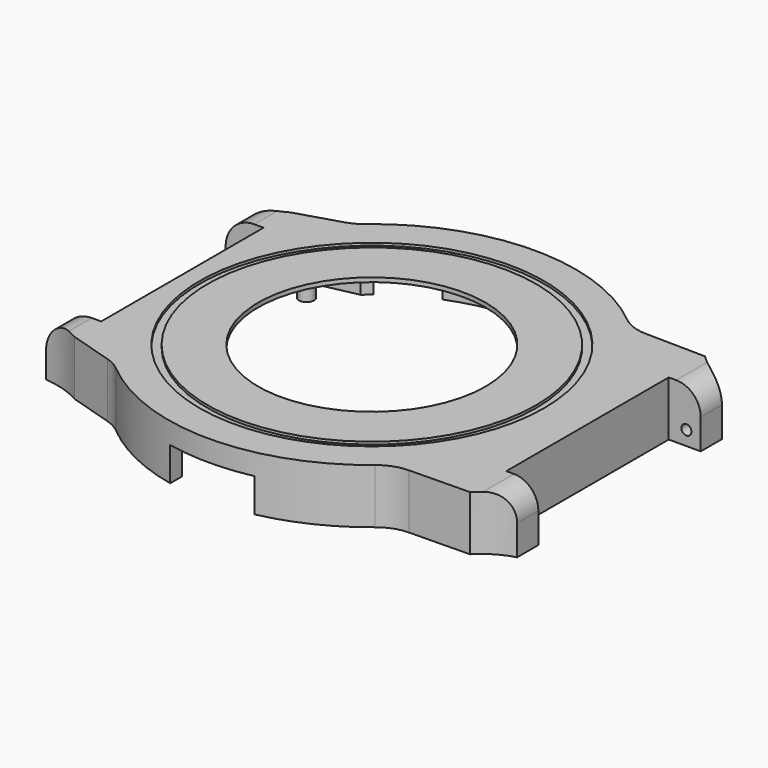
from build123d import *

# Parameters (mm, degrees)
PAD_DEPTH       = 6.5
POCKET_DEPTH    = 6
SKETCH002_R     = 13.5
POCKET001_DEPTH = 1
SKETCH003_W     = 5.4
SKETCH003_H     = 6.5
PAD001_DEPTH    = 3.8
POCKET002_DEPTH = 10
SKETCH008_R     = 0.6
POCKET003_DEPTH = 2
SKETCH009_R     = 0.6
POCKET004_DEPTH = 2
FILLET_R        = 2.9
FILLET001_R     = 2.9
FILLET002_R     = 5
FILLET003_R     = 5
FILLET004_R     = 5
FILLET005_R     = 5
SKETCH010_W     = 3.95
SKETCH010_H     = 6.5
PAD002_DEPTH    = 4.5
POCKET005_DEPTH = 10
SKETCH012_R     = 0.6
POCKET006_DEPTH = 2
SKETCH013_R     = 0.6
POCKET007_DEPTH = 2
FILLET006_R     = 3.4
FILLET007_R     = 3.4
SKETCH014_R     = 20.45
SKETCH014_R_2   = 19.5
POCKET008_DEPTH = 0.3
SKETCH015_R     = 0.9
PAD003_DEPTH    = 6
FILLET008_R     = 1
POCKET009_DEPTH = 4
POCKET010_DEPTH = 4


with BuildPart() as part:
    # Sketch → Pad (new body)
    with BuildSketch(Plane.XY):
        with BuildLine():
            Line((-22.5019915649, 16), (-22.5019915649, -16))
            Line((-22.5019915649, -16), (-16.2858834578, -17.9))
            ThreePointArc((-16.2858834578, -17.9), (0.2206895736, -24.1989937004), (16.6096357576, -17.6))
            Line((16.6096357576, -17.6), (25.6083856708, -17.45))
            Line((25.6083856708, 17.45), (25.6083856708, -17.45))
            Line((16.6096357576, 17.6), (25.6083856708, 17.45))
            ThreePointArc((16.6096357576, 17.6), (0.2206895736, 24.1989937004), (-16.2858834578, 17.9))
            Line((-22.5019915649, 16), (-16.2858834578, 17.9))
        make_face()
    extrude(amount=PAD_DEPTH)

    # Sketch001 → Pocket (cut)
    with BuildSketch(Plane.XY):
        with BuildLine():
            Line((-14.8539557021, 16.9), (-21.2122180433, 15.55))
            Line((-21.2122180433, 15.55), (-21.2122180433, -15.55))
            Line((-21.2122180433, -15.55), (-14.8539557021, -16.9))
            ThreePointArc((-14.8539557021, -16.9), (-0.0760301383, -22.4998715423), (14.739402973, -17))
            Line((14.739402973, -17), (23.6191552218, -16.4))
            Line((23.6191552218, 16.4), (23.6191552218, -16.4))
            Line((14.739402973, 17), (23.6191552218, 16.4))
            ThreePointArc((14.739402973, 17), (-0.0760301383, 22.4998715423), (-14.8539557021, 16.9))
        make_face()
    extrude(amount=POCKET_DEPTH, mode=Mode.SUBTRACT)

    # Sketch002 (on Face19 of Pocket) → Pocket001 (cut)
    with BuildSketch(Plane(origin=(0, 0, 6), x_dir=(1, 0, 0), z_dir=(0, 0, -1))):
        Circle(SKETCH002_R)
    extrude(amount=-POCKET001_DEPTH, mode=Mode.SUBTRACT)

    # Sketch003 (on Face6 of Pocket001) → Pad001 (join)
    with BuildSketch(Plane.YZ.offset(25.6083856708)):
        with Locations((-14.75, 3.25)):
            Rectangle(SKETCH003_W, SKETCH003_H)
        with Locations((14.75, 3.25)):
            Rectangle(SKETCH003_W, SKETCH003_H)
    extrude(amount=PAD001_DEPTH)

    # Sketch006 → Pocket002 (cut)
    with BuildSketch(Plane.XY.offset(6.5)):
        with BuildLine():
            ThreePointArc((25.6083856708, 17.45), (27.3544703324, 16.0634214301), (29.4083856708, 15.1957558499))
            Line((29.4083856708, 17.45), (29.4083856708, 15.1957558499))
            Line((29.4083856708, 17.45), (25.6083856708, 17.45))
        make_face()
        with BuildLine():
            ThreePointArc((29.4083856708, -15.1957558499), (27.3544703324, -16.0634214301), (25.6083856708, -17.45))
            Line((29.4083856708, -17.45), (25.6083856708, -17.45))
            Line((29.4083856708, -15.1957558499), (29.4083856708, -17.45))
        make_face()
    extrude(amount=-POCKET002_DEPTH, mode=Mode.SUBTRACT)

    # Sketch008 (on Face27 of Pocket002) → Pocket003 (cut)
    with BuildSketch(Plane(origin=(0, -12.05, 0), x_dir=(-1, 0, 0), z_dir=(0, 1, 0))):
        with Locations((-27.7083856708, 1.7)):
            Circle(SKETCH008_R)
    extrude(amount=-POCKET003_DEPTH, mode=Mode.SUBTRACT)

    # Sketch009 (on Face26 of Pocket003) → Pocket004 (cut)
    with BuildSketch(Plane.XZ.offset(-12.05)):
        with Locations((27.7083856708, 1.7)):
            Circle(SKETCH009_R)
    extrude(amount=-POCKET004_DEPTH, mode=Mode.SUBTRACT)

    # Fillet
    fillet_edges = [part.edges().sort_by_distance(p)[0] for p in [
        (29.408386, -13.622878, 6.5),
    ]]
    fillet(fillet_edges, radius=FILLET_R)

    # Fillet001
    fillet001_edges = [part.edges().sort_by_distance(p)[0] for p in [
        (29.408386, 13.622878, 6.5),
    ]]
    fillet(fillet001_edges, radius=FILLET001_R)

    # Fillet002
    fillet002_edges = [part.edges().sort_by_distance(p)[0] for p in [
        (16.609636, -17.6, 3.25),
    ]]
    fillet(fillet002_edges, radius=FILLET002_R)

    # Fillet003
    fillet003_edges = [part.edges().sort_by_distance(p)[0] for p in [
        (16.609636, 17.6, 3.25),
    ]]
    fillet(fillet003_edges, radius=FILLET003_R)

    # Fillet004
    fillet004_edges = [part.edges().sort_by_distance(p)[0] for p in [
        (-16.285883, -17.9, 3.25),
    ]]
    fillet(fillet004_edges, radius=FILLET004_R)

    # Fillet005
    fillet005_edges = [part.edges().sort_by_distance(p)[0] for p in [
        (-16.285883, 17.9, 3.25),
    ]]
    fillet(fillet005_edges, radius=FILLET005_R)

    # Sketch010 (on Face4 of Fillet005) → Pad002 (join)
    with BuildSketch(Plane(origin=(-22.5019915649, 0, 0), x_dir=(0, -1, 0), z_dir=(-1, 0, 0))):
        with Locations((-14.025, 3.25)):
            Rectangle(SKETCH010_W, SKETCH010_H)
        with Locations((14.025, 3.25)):
            Rectangle(SKETCH010_W, SKETCH010_H)
    extrude(amount=PAD002_DEPTH)

    # Sketch011 (on Face6 of Pad002) → Pocket005 (cut)
    with BuildSketch(Plane.XY.offset(6.5)):
        with BuildLine():
            ThreePointArc((-27.0019915649, 14.6), (-24.6759937451, 15.0557212933), (-22.5019915649, 16))
            Line((-22.5019915649, 16), (-27.0019915649, 16))
            Line((-27.0019915649, 16), (-27.0019915649, 14.6))
        make_face()
        with BuildLine():
            ThreePointArc((-22.5019915649, -16), (-24.6759937451, -15.0557212933), (-27.0019915649, -14.6))
            Line((-27.0019915649, -14.6), (-27.0019915649, -16))
            Line((-27.0019915649, -16), (-22.5019915649, -16))
        make_face()
    extrude(amount=-POCKET005_DEPTH, mode=Mode.SUBTRACT)

    # Sketch012 (on Face23 of Pocket005) → Pocket006 (cut)
    with BuildSketch(Plane(origin=(0, -12.05, 0), x_dir=(-1, 0, 0), z_dir=(0, 1, 0))):
        with Locations((25.3019915649, 1.7)):
            Circle(SKETCH012_R)
    extrude(amount=-POCKET006_DEPTH, mode=Mode.SUBTRACT)

    # Sketch013 (on Face21 of Pocket006) → Pocket007 (cut)
    with BuildSketch(Plane.XZ.offset(-12.05)):
        with Locations((-25.3019915649, 1.7)):
            Circle(SKETCH013_R)
    extrude(amount=-POCKET007_DEPTH, mode=Mode.SUBTRACT)

    # Fillet006
    fillet006_edges = [part.edges().sort_by_distance(p)[0] for p in [
        (-27.001992, 13.325, 6.5),
    ]]
    fillet(fillet006_edges, radius=FILLET006_R)

    # Fillet007
    fillet007_edges = [part.edges().sort_by_distance(p)[0] for p in [
        (-27.001992, -13.325, 6.5),
    ]]
    fillet(fillet007_edges, radius=FILLET007_R)

    # Sketch014 (on Face4 of Fillet007) → Pocket008 (cut)
    with BuildSketch(Plane.XY.offset(6.5)):
        Circle(SKETCH014_R)
        Circle(SKETCH014_R_2, mode=Mode.SUBTRACT)
    extrude(amount=-POCKET008_DEPTH, mode=Mode.SUBTRACT)

    # Sketch015 (on Face55 of Pocket008) → Pad003 (join)
    with BuildSketch(Plane(origin=(0, 0, 6), x_dir=(1, 0, 0), z_dir=(0, 0, -1))):
        with Locations((-18.42, 13.32)):
            Circle(SKETCH015_R)
        with Locations((-18.42, -13.32)):
            Circle(SKETCH015_R)
        with Locations((7.27, 18.56)):
            Circle(SKETCH015_R)
        with Locations((5.37, -19.79)):
            Circle(SKETCH015_R)
    extrude(amount=PAD003_DEPTH)

    # Fillet008
    fillet008_edges = [part.edges().sort_by_distance(p)[0] for p in [
        (-19.32, -13.32, 6),
        (6.37, -18.56, 6),
        (-19.32, 13.32, 6),
        (4.47, 19.79, 6),
    ]]
    fillet(fillet008_edges, radius=FILLET008_R)

    # Sketch016 (on Face16 of Fillet008) → Pocket009 (cut)
    with BuildSketch(Plane(origin=(0, 0, 0), x_dir=(1, 0, 0), z_dir=(0, 0, -1))):
        with BuildLine():
            Line((-5, 23.6778377391), (-5, 21.9374109685))
            ThreePointArc((5, 21.9374109685), (0, 22.5), (-5, 21.9374109685))
            Line((5, 23.6778377391), (5, 21.9374109685))
            ThreePointArc((5, 23.6778377391), (0, 24.2), (-5, 23.6778377391))
        make_face()
    extrude(amount=-POCKET009_DEPTH, mode=Mode.SUBTRACT)

    # Sketch017 (on Face16 of Pocket009) → Pocket010 (cut)
    with BuildSketch(Plane(origin=(0, 0, 0), x_dir=(1, 0, 0), z_dir=(0, 0, -1))):
        with BuildLine():
            Line((-3.499984119, -22.2261132717), (-3.5, -23.9455632634))
            ThreePointArc((-3.5, -23.9455632634), (0, -24.2000019575), (3.5, -23.9455632634))
            Line((3.5000158811, -22.2261082701), (3.5, -23.9455632634))
            ThreePointArc((-3.499984119, -22.2261132717), (1.60767e-05, -22.5), (3.5000158811, -22.2261082701))
        make_face()
        with BuildLine():
            ThreePointArc((-13.9498796389, -17.6536358312), (-11.25, -19.4855715851), (-8.3135572795, -20.9077680626))
            Line((-8.3135572795, -20.9077680626), (-8.9416927184, -22.487466094))
            ThreePointArc((-15.0038705449, -18.987466094), (-12.1, -20.9578147716), (-8.9416927184, -22.487466094))
            Line((-13.9498796389, -17.6536358312), (-15.0038705449, -18.987466094))
        make_face()
        with BuildLine():
            ThreePointArc((8.3135572795, -20.9077680626), (11.25, -19.4855715851), (13.9498796389, -17.6536358312))
            Line((13.9498796389, -17.6536358312), (15.0038705449, -18.987466094))
            ThreePointArc((8.9416927184, -22.487466094), (12.1, -20.9578147716), (15.0038705449, -18.987466094))
            Line((8.3135572795, -20.9077680626), (8.9416927184, -22.487466094))
        make_face()
    extrude(amount=-POCKET010_DEPTH, mode=Mode.SUBTRACT)


solid = part.part
